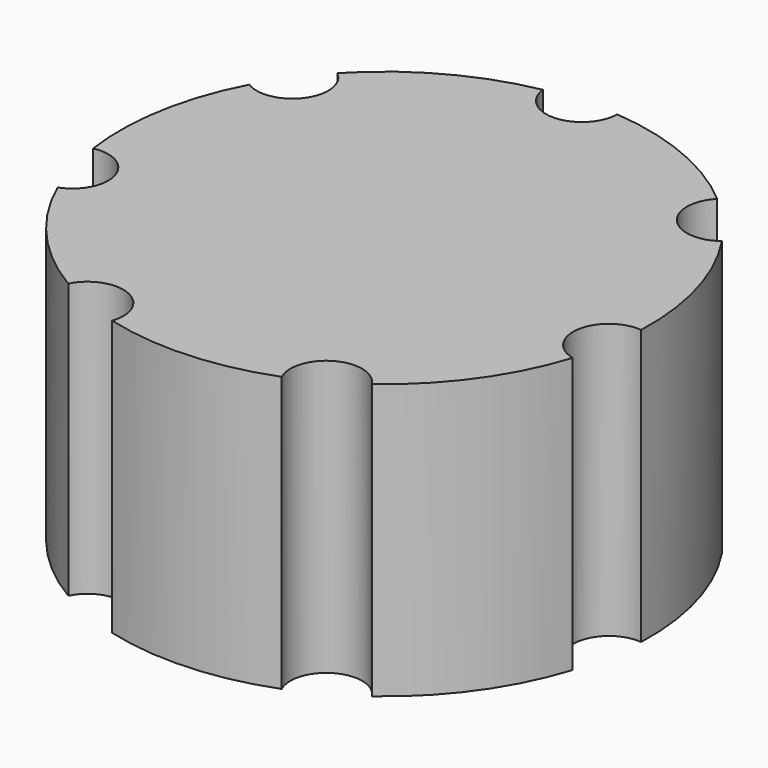
from build123d import *

# Parameters (mm, degrees)
F0_R          = 24.432621
F1_DEPTH      = 25.4
F2_R          = 3.310973
F3_DEPTH      = 5.842
F3_DEPTH_BACK = 30.988
F4_COUNT      = 7


with BuildPart() as f1:
    # F0 (on Top) → F1 (new body)
    with BuildSketch(Plane.XY):
        Circle(F0_R)
    extrude(amount=F1_DEPTH)


with BuildPart() as f3:
    # F2 (on face) → F3 (new body, two sides)
    with BuildSketch(Plane.XY.offset(25.4)) as f3_sk:
        with Locations((-9.425403, -22.541401)):
            Circle(F2_R)
    extrude(amount=F3_DEPTH)
    extrude(f3_sk.sketch, amount=-F3_DEPTH_BACK)


with BuildPart() as f4_1:
    # F4: instance of F3
    add(f3.part.rotate(Axis((0, 0, 25.4), (0, 0, 1)), 1 * 360 / F4_COUNT))


with BuildPart() as f4_2:
    # F4: instance of F3
    add(f3.part.rotate(Axis((0, 0, 25.4), (0, 0, 1)), 2 * 360 / F4_COUNT))


with BuildPart() as f4_3:
    # F4: instance of F3
    add(f3.part.rotate(Axis((0, 0, 25.4), (0, 0, 1)), 3 * 360 / F4_COUNT))


with BuildPart() as f4_4:
    # F4: instance of F3
    add(f3.part.rotate(Axis((0, 0, 25.4), (0, 0, 1)), 4 * 360 / F4_COUNT))


with BuildPart() as f4_5:
    # F4: instance of F3
    add(f3.part.rotate(Axis((0, 0, 25.4), (0, 0, 1)), 5 * 360 / F4_COUNT))


with BuildPart() as f4_6:
    # F4: instance of F3
    add(f3.part.rotate(Axis((0, 0, 25.4), (0, 0, 1)), 6 * 360 / F4_COUNT))


with BuildPart() as f1_1:
    add(f1.part)

    # F5: cut F3, F4_1, F4_2, F4_3, F4_4, F4_5, F4_6
    add(f3.part, mode=Mode.SUBTRACT)
    add(f4_1.part, mode=Mode.SUBTRACT)
    add(f4_2.part, mode=Mode.SUBTRACT)
    add(f4_3.part, mode=Mode.SUBTRACT)
    add(f4_4.part, mode=Mode.SUBTRACT)
    add(f4_5.part, mode=Mode.SUBTRACT)
    add(f4_6.part, mode=Mode.SUBTRACT)


solid = f1_1.part
